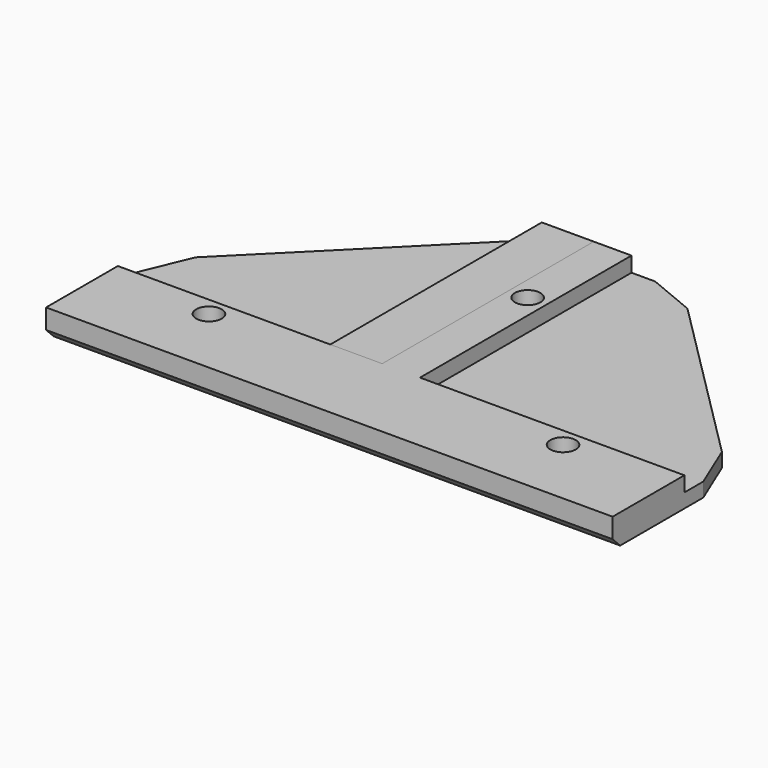
from build123d import *

# Parameters (mm, degrees)
PAD_DEPTH       = 3
PAD001_DEPTH    = 3.2
SKETCH002_R     = 2.7
POCKET_DEPTH    = 8
CHAMFER_SIZE    = 2
CHAMFER001_SIZE = 6
PAD002_DEPTH    = 3
PAD003_DEPTH    = 3.2
SKETCH005_R     = 2.7
POCKET001_DEPTH = 8
CHAMFER002_SIZE = 2
CHAMFER003_SIZE = 6


with BuildPart() as obj1:
    # Sketch → Pad (new body)
    with BuildSketch(Plane.XY):
        Polygon((75, 0), (75, 30), (30, 75), (0, 75), (0, 0), align=None)
    extrude(amount=PAD_DEPTH)

    # Sketch001 (on Face7 of Pad) → Pad001 (join)
    with BuildSketch(Plane.XY.offset(3)):
        Polygon((0, 75), (19, 75), (19, 19), (75, 19), (75, 0), (0, 0), align=None)
    extrude(amount=PAD001_DEPTH)

    # Sketch002 (on Face2 of Pad001) → Pocket (cut)
    with BuildSketch(Plane(origin=(0, 0, 0), x_dir=(1, 0, 0), z_dir=(0, 0, -1))):
        with Locations((52.5, -15)):
            Circle(SKETCH002_R)
        with Locations((15, -52.5)):
            Circle(SKETCH002_R)
    extrude(amount=-POCKET_DEPTH, mode=Mode.SUBTRACT)

    # Chamfer
    chamfer_edges = [obj1.edges().sort_by_distance(p)[0] for p in [
        (37.5, 0, 0),
        (0, 37.5, 0),
    ]]
    chamfer(chamfer_edges, length=CHAMFER_SIZE)

    # Chamfer001
    chamfer001_edges = [obj1.edges().sort_by_distance(p)[0] for p in [
        (75, 30, 1.5),
        (30, 75, 1.5),
    ]]
    chamfer(chamfer001_edges, length=CHAMFER001_SIZE)


with BuildPart() as obj2:
    # Sketch003 → Pad002 (new body)
    with BuildSketch(Plane.XY):
        Polygon((75, 0), (75, 30), (30, 75), (0, 75), (-45, 30), (-45, 0), (0, 0), align=None)
    extrude(amount=PAD002_DEPTH)

    # Sketch004 (on Face7 of Pad002) → Pad003 (join)
    with BuildSketch(Plane.XY.offset(3)):
        Polygon((19, 75), (19, 19), (75, 19), (75, 0), (0, 0), (-45, 0), (-45, 19), (11, 19), (11, 75), align=None)
    extrude(amount=PAD003_DEPTH)

    # Sketch005 (on Face2 of Pad003) → Pocket001 (cut)
    with BuildSketch(Plane(origin=(0, 0, 0), x_dir=(1, 0, 0), z_dir=(0, 0, -1))):
        with Locations((52.5, -15)):
            Circle(SKETCH005_R)
        with Locations((15, -52.5)):
            Circle(SKETCH005_R)
        with Locations((-22.5, -15)):
            Circle(SKETCH005_R)
    extrude(amount=-POCKET001_DEPTH, mode=Mode.SUBTRACT)

    # Chamfer002
    chamfer002_edges = [obj2.edges().sort_by_distance(p)[0] for p in [
        (15, 0, 0),
    ]]
    chamfer(chamfer002_edges, length=CHAMFER002_SIZE)

    # Chamfer003
    chamfer003_edges = [obj2.edges().sort_by_distance(p)[0] for p in [
        (0, 75, 1.5),
        (-45, 30, 1.5),
        (30, 75, 1.5),
        (75, 30, 1.5),
    ]]
    chamfer(chamfer003_edges, length=CHAMFER003_SIZE)


solid = Compound([obj1.part, obj2.part])
